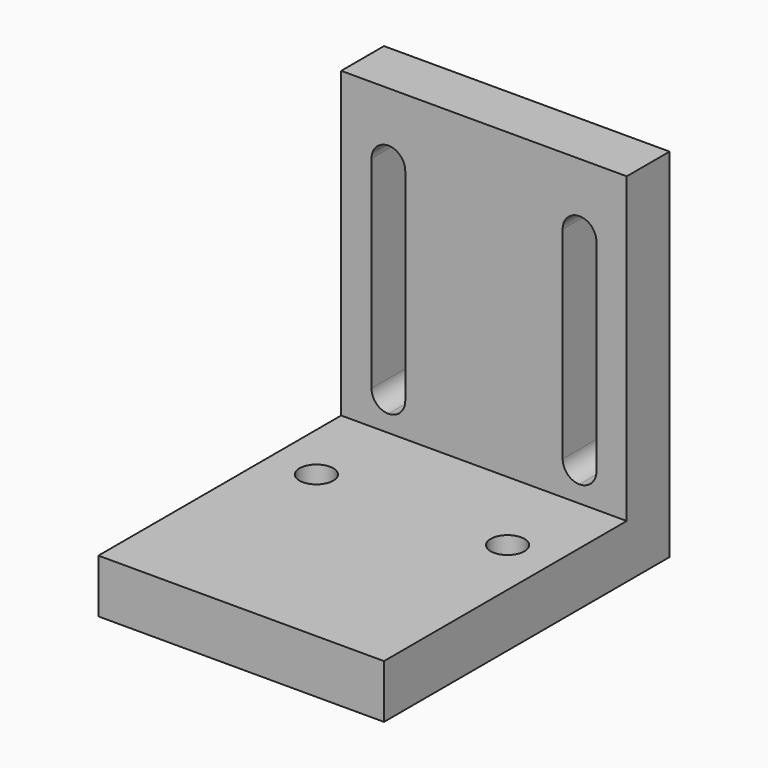
from build123d import *

# Parameters (mm, degrees)
F0_W     = 9.525
F0_H     = 53.975
F3_DEPTH = 25.4
F4_DEPTH = 9.526
F2_R     = 3
F5_DEPTH = 9.526


with BuildPart() as f3:
    # F0 (on Right) → F3 (new body, symmetric)
    with BuildSketch(Plane.YZ):
        Polygon((9.525, 0), (0, 0), (-53.975, 0), (-53.975, -9.525), (9.525, -9.525), align=None)
        with Locations((4.7625, 26.9875)):
            Rectangle(F0_W, F0_H)
    extrude(amount=F3_DEPTH, both=True)

    # F1 (on Front) → F4 (cut, through all)
    with BuildSketch(Plane.XZ):
        with BuildLine():
            ThreePointArc((-14, 6), (-14.87868, 8.12132), (-17, 9))
            Line((-17, 9), (-17, 3))
            ThreePointArc((-17, 3), (-14.87868, 3.87868), (-14, 6))
        make_face()
        with BuildLine():
            Line((-17, 3), (-17, 9))
            ThreePointArc((-17, 9), (-19.12132, 8.12132), (-20, 6))
            ThreePointArc((-20, 6), (-19.12132, 3.87868), (-17, 3))
        make_face()
        with BuildLine():
            Line((-17, 9), (-17, 39))
            ThreePointArc((-17, 39), (-19.12132, 39.87868), (-20, 42))
            Line((-20, 42), (-20, 6))
            ThreePointArc((-20, 6), (-19.12132, 8.12132), (-17, 9))
        make_face()
        with BuildLine():
            ThreePointArc((-14, 42), (-14.87868, 39.87868), (-17, 39))
            Line((-17, 39), (-17, 9))
            ThreePointArc((-17, 9), (-14.87868, 8.12132), (-14, 6))
            Line((-14, 6), (-14, 42))
        make_face()
        with BuildLine():
            ThreePointArc((-14, 42), (-14.87868, 44.12132), (-17, 45))
            Line((-17, 45), (-17, 39))
            ThreePointArc((-17, 39), (-14.87868, 39.87868), (-14, 42))
        make_face()
        with BuildLine():
            Line((-17, 39), (-17, 45))
            ThreePointArc((-17, 45), (-19.12132, 44.12132), (-20, 42))
            ThreePointArc((-20, 42), (-19.12132, 39.87868), (-17, 39))
        make_face()
        with BuildLine():
            ThreePointArc((20, 42), (19.12132, 44.12132), (17, 45))
            Line((17, 45), (17, 39))
            ThreePointArc((17, 39), (19.12132, 39.87868), (20, 42))
        make_face()
        with BuildLine():
            Line((17, 39), (17, 45))
            ThreePointArc((17, 45), (14.87868, 44.12132), (14, 42))
            ThreePointArc((14, 42), (14.87868, 39.87868), (17, 39))
        make_face()
        with BuildLine():
            Line((17, 9), (17, 39))
            ThreePointArc((17, 39), (14.87868, 39.87868), (14, 42))
            Line((14, 42), (14, 6))
            ThreePointArc((14, 6), (14.87868, 8.12132), (17, 9))
        make_face()
        with BuildLine():
            ThreePointArc((20, 42), (19.12132, 39.87868), (17, 39))
            Line((17, 39), (17, 9))
            ThreePointArc((17, 9), (19.12132, 8.12132), (20, 6))
            Line((20, 6), (20, 42))
        make_face()
        with BuildLine():
            ThreePointArc((20, 6), (19.12132, 8.12132), (17, 9))
            Line((17, 9), (17, 3))
            ThreePointArc((17, 3), (19.12132, 3.87868), (20, 6))
        make_face()
        with BuildLine():
            Line((17, 3), (17, 9))
            ThreePointArc((17, 9), (14.87868, 8.12132), (14, 6))
            ThreePointArc((14, 6), (14.87868, 3.87868), (17, 3))
        make_face()
    extrude(amount=-F4_DEPTH, mode=Mode.SUBTRACT)

    # F2 (on Top) → F5 (cut, through all)
    with BuildSketch(Plane.XY):
        with Locations((-17, -16)):
            Circle(F2_R)
        with Locations((17, -16)):
            Circle(F2_R)
    extrude(amount=-F5_DEPTH, mode=Mode.SUBTRACT)


solid = f3.part
